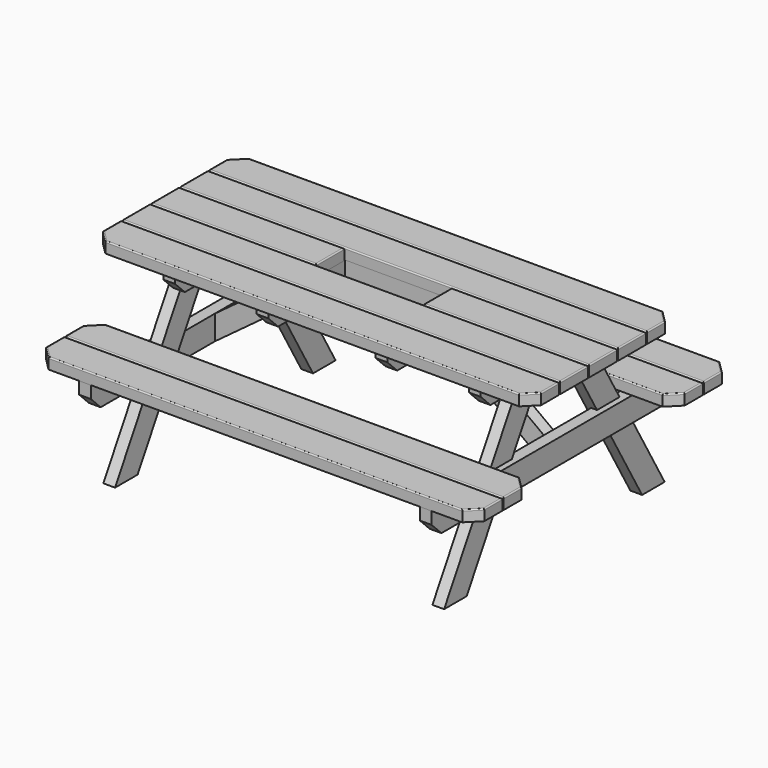
from build123d import *

# Parameters (mm, degrees)
F0_W           = 1795
F0_H           = 143
F1_DEPTH       = 45
F4_DEPTH       = 48
F6_DEPTH       = 24
F6_DEPTH_BACK  = 24
F8_W           = 1795
F8_H           = 143
F9_DEPTH       = 45
F11_W          = 48
F11_H          = 635
F12_DEPTH      = 100
F14_W          = 440
F14_H          = 48
F15_DEPTH      = 100
F16_W          = 440
F16_H          = 153
F17_DEPTH      = 45.001
F18_W          = 488
F18_H          = 201
F19_DEPTH      = 12.5
F21_DEPTH      = 24
F21_DEPTH_BACK = 24
F23_SIZE       = 50
F23_2_SIZE     = 50
F23_3_SIZE     = 50
F23_4_SIZE     = 50
F23_5_SIZE     = 50
F23_6_SIZE     = 50
F23_7_SIZE     = 50
F23_8_SIZE     = 50
F23_9_SIZE     = 50
F23_10_SIZE    = 50
F23_11_SIZE    = 50
F24_R          = 5
F24_2_R        = 5
F24_3_R        = 5
F24_4_R        = 5
F24_5_R        = 5
F24_6_R        = 5
F24_7_R        = 5
F24_8_R        = 5
F24_9_R        = 5


with BuildPart() as f1:
    # F0 (on Top) → F1 (new body)
    with BuildSketch(Plane.XY):
        Rectangle(F0_W, F0_H)
    extrude(amount=F1_DEPTH)

    # F16 (on face) → F17 (cut, through all)
    with BuildSketch(Plane(origin=(0, 0, 0), x_dir=(1, 0, 0), z_dir=(0, 0, -1))):
        Rectangle(F16_W, F16_H)
    extrude(amount=-F17_DEPTH, mode=Mode.SUBTRACT)

    # F24#5
    f24_5_edges = [f1.edges().sort_by_distance(p)[0] for p in [
        (-897.5, 0, 45),
        (-558.75, 71.5, 45),
        (-220, 0, 45),
        (-558.75, -71.5, 45),
        (220, 0, 45),
        (558.75, 71.5, 45),
        (897.5, 0, 45),
        (558.75, -71.5, 45),
        (-897.5, 71.5, 22.5),
        (-897.5, -71.5, 22.5),
        (-897.5, 0, 0),
    ]]
    fillet(f24_5_edges, radius=F24_5_R)


with BuildPart() as f1b:
    # F0 (on Top) → F1, piece 2 (new body)
    with BuildSketch(Plane.XY):
        with Locations((0, -148)):
            Rectangle(F0_W, F0_H)
    extrude(amount=F1_DEPTH)

    # F24#4
    f24_4_edges = [f1b.edges().sort_by_distance(p)[0] for p in [
        (0, -76.5, 45),
        (-897.5, -148, 45),
        (0, -219.5, 45),
        (897.5, -148, 45),
        (-897.5, -76.5, 22.5),
        (-897.5, -219.5, 22.5),
        (-897.5, -148, 0),
    ]]
    fillet(f24_4_edges, radius=F24_4_R)


with BuildPart() as f1c:
    # F0 (on Top) → F1, piece 3 (new body)
    with BuildSketch(Plane.XY):
        with Locations((0, -296)):
            Rectangle(F0_W, F0_H)
    extrude(amount=F1_DEPTH)

    # F23#9
    f23_9_edges = [f1c.edges().sort_by_distance(p)[0] for p in [
        (-897.5, -367.5, 22.5),
        (897.5, -367.5, 22.5),
    ]]
    chamfer(f23_9_edges, length=F23_9_SIZE)

    # F24#3
    f24_3_edges = [f1c.edges().sort_by_distance(p)[0] for p in [
        (-897.5, -271, 45),
        (-872.5, -342.5, 45),
        (0, -224.5, 45),
        (0, -367.5, 45),
        (897.5, -271, 45),
        (872.5, -342.5, 45),
    ]]
    fillet(f24_3_edges, radius=F24_3_R)


with BuildPart() as f1d:
    # F0 (on Top) → F1, piece 4 (new body)
    with BuildSketch(Plane.XY):
        with Locations((0, 148)):
            Rectangle(F0_W, F0_H)
    extrude(amount=F1_DEPTH)

    # F24#6
    f24_6_edges = [f1d.edges().sort_by_distance(p)[0] for p in [
        (-897.5, 148, 45),
        (0, 76.5, 45),
        (897.5, 148, 45),
        (0, 219.5, 45),
        (-897.5, 219.5, 22.5),
        (-897.5, 76.5, 22.5),
        (-897.5, 148, 0),
    ]]
    fillet(f24_6_edges, radius=F24_6_R)


with BuildPart() as f1e:
    # F0 (on Top) → F1, piece 5 (new body)
    with BuildSketch(Plane.XY):
        with Locations((0, 296)):
            Rectangle(F0_W, F0_H)
    extrude(amount=F1_DEPTH)

    # F23#8
    f23_8_edges = [f1e.edges().sort_by_distance(p)[0] for p in [
        (-897.5, 367.5, 22.5),
        (897.5, 367.5, 22.5),
    ]]
    chamfer(f23_8_edges, length=F23_8_SIZE)

    # F24#7
    f24_7_edges = [f1e.edges().sort_by_distance(p)[0] for p in [
        (-897.5, 271, 45),
        (-872.5, 342.5, 45),
        (0, 224.5, 45),
        (0, 367.5, 45),
        (897.5, 271, 45),
        (872.5, 342.5, 45),
    ]]
    fillet(f24_7_edges, radius=F24_7_R)


with BuildPart() as f4:
    # F3 (on offset) → F4 (new body)
    with BuildSketch(Plane.YZ.offset(650)):
        Polygon((564.6152422707, -700), (160.4700538379, 0), (45, 0), (449.1451884327, -700), align=None)
    extrude(amount=F4_DEPTH)



with BuildPart() as f4b:
    # F3 (on offset) → F4, piece 2 (new body)
    with BuildSketch(Plane.YZ.offset(650)):
        Polygon((-449.1451884327, -700), (-45, 0), (-160.4700538379, 0), (-564.6152422707, -700), align=None)
    extrude(amount=F4_DEPTH)


with BuildPart() as f4_1:
    add(f4.part)

    add(f4b.part)  # F6 merges F4b
    # F5 (on face) → F6 (join, two sides)
    with BuildSketch(Plane.YZ.offset(698)) as f6_sk:
        Polygon((-333.6751345948, -300), (-658.5, -300), (-658.5, -400), (658.5, -400), (658.5, -300), align=None)
    extrude(amount=F6_DEPTH)
    extrude(f6_sk.sketch, amount=-F6_DEPTH_BACK)


with BuildPart() as f7_1:
    # F7: instance of F4
    add(f4_1.part.mirror(Plane.YZ))

    # F23#3
    f23_3_edges = [f7_1.edges().sort_by_distance(p)[0] for p in [
        (-698, -658.5, -400),
        (-698, 658.5, -400),
    ]]
    chamfer(f23_3_edges, length=F23_3_SIZE)


with BuildPart() as f9:
    # F8 (on face) → F9 (new body)
    with BuildSketch(Plane.XY.offset(-300)):
        with Locations((0, -587)):
            Rectangle(F8_W, F8_H)
    extrude(amount=F9_DEPTH)

    # F23
    f23_edges = [f9.edges().sort_by_distance(p)[0] for p in [
        (897.5, -658.5, -277.5),
        (-897.5, -658.5, -277.5),
    ]]
    chamfer(f23_edges, length=F23_SIZE)

    # F24
    f24_edges = [f9.edges().sort_by_distance(p)[0] for p in [
        (-897.5, -562, -255),
        (-872.5, -633.5, -255),
        (0, -515.5, -255),
        (0, -658.5, -255),
        (897.5, -562, -255),
        (872.5, -633.5, -255),
    ]]
    fillet(f24_edges, radius=F24_R)


with BuildPart() as f9b:
    # F8 (on face) → F9, piece 2 (new body)
    with BuildSketch(Plane.XY.offset(-300)):
        with Locations((0, -439)):
            Rectangle(F8_W, F8_H)
    extrude(amount=F9_DEPTH)

    # F23#11
    f23_11_edges = [f9b.edges().sort_by_distance(p)[0] for p in [
        (897.5, -367.5, -277.5),
        (-897.5, -367.5, -277.5),
    ]]
    chamfer(f23_11_edges, length=F23_11_SIZE)

    # F24#2
    f24_2_edges = [f9b.edges().sort_by_distance(p)[0] for p in [
        (-897.5, -464, -255),
        (-872.5, -392.5, -255),
        (0, -510.5, -255),
        (0, -367.5, -255),
        (897.5, -464, -255),
        (872.5, -392.5, -255),
    ]]
    fillet(f24_2_edges, radius=F24_2_R)


with BuildPart() as f9c:
    # F8 (on face) → F9, piece 3 (new body)
    with BuildSketch(Plane.XY.offset(-300)):
        with Locations((0, 439)):
            Rectangle(F8_W, F8_H)
    extrude(amount=F9_DEPTH)

    # F23#10
    f23_10_edges = [f9c.edges().sort_by_distance(p)[0] for p in [
        (897.5, 367.5, -277.5),
        (-897.5, 367.5, -277.5),
    ]]
    chamfer(f23_10_edges, length=F23_10_SIZE)

    # F24#8
    f24_8_edges = [f9c.edges().sort_by_distance(p)[0] for p in [
        (0, 367.5, -255),
        (-872.5, 392.5, -255),
        (872.5, 392.5, -255),
        (-897.5, 464, -255),
        (897.5, 464, -255),
        (0, 510.5, -255),
    ]]
    fillet(f24_8_edges, radius=F24_8_R)


with BuildPart() as f9d:
    # F8 (on face) → F9, piece 4 (new body)
    with BuildSketch(Plane.XY.offset(-300)):
        with Locations((0, 587)):
            Rectangle(F8_W, F8_H)
    extrude(amount=F9_DEPTH)

    # F23#2
    f23_2_edges = [f9d.edges().sort_by_distance(p)[0] for p in [
        (897.5, 658.5, -277.5),
        (-897.5, 658.5, -277.5),
    ]]
    chamfer(f23_2_edges, length=F23_2_SIZE)

    # F24#9
    f24_9_edges = [f9d.edges().sort_by_distance(p)[0] for p in [
        (-897.5, 562, -255),
        (-872.5, 633.5, -255),
        (0, 515.5, -255),
        (0, 658.5, -255),
        (897.5, 562, -255),
        (872.5, 633.5, -255),
    ]]
    fillet(f24_9_edges, radius=F24_9_R)


with BuildPart() as f12:
    # F11 (on face) → F12 (new body)
    with BuildSketch(Plane(origin=(0, 0, 0), x_dir=(1, 0, 0), z_dir=(0, 0, -1))):
        with Locations((-626, 0)):
            Rectangle(F11_W, F11_H)
    extrude(amount=F12_DEPTH)

    # F23#4
    f23_4_edges = [f12.edges().sort_by_distance(p)[0] for p in [
        (-626, 317.5, -100),
        (-626, -317.5, -100),
    ]]
    chamfer(f23_4_edges, length=F23_4_SIZE)


with BuildPart() as f12b:
    # F11 (on face) → F12, piece 2 (new body)
    with BuildSketch(Plane(origin=(0, 0, 0), x_dir=(1, 0, 0), z_dir=(0, 0, -1))):
        with Locations((626, 0)):
            Rectangle(F11_W, F11_H)
    extrude(amount=F12_DEPTH)

    # F23#6
    f23_6_edges = [f12b.edges().sort_by_distance(p)[0] for p in [
        (626, 317.5, -100),
        (626, -317.5, -100),
    ]]
    chamfer(f23_6_edges, length=F23_6_SIZE)


with BuildPart() as f15:
    # F14 (on face) → F15 (new body)
    with BuildSketch(Plane(origin=(0, 0, 0), x_dir=(1, 0, 0), z_dir=(0, 0, -1))):
        Polygon((-220, 317.5), (-268, 317.5), (-268, -317.5), (-220, -317.5), (-220, -124.5), (-220, -76.5), (-220, 76.5), (-220, 124.5), align=None)
        with Locations((0, 100.5)):
            Rectangle(F14_W, F14_H)
        Polygon((220, 317.5), (220, 124.5), (220, 76.5), (220, -76.5), (220, -124.5), (220, -317.5), (268, -317.5), (268, 317.5), align=None)
        with Locations((0, -100.5)):
            Rectangle(F14_W, F14_H)
    extrude(amount=F15_DEPTH)

    # F18 (on face) → F19 (join)
    with BuildSketch(Plane(origin=(0, 0, -100), x_dir=(1, 0, 0), z_dir=(0, 0, -1))):
        Rectangle(F18_W, F18_H)
    extrude(amount=F19_DEPTH)

    # F23#5
    f23_5_edges = [f15.edges().sort_by_distance(p)[0] for p in [
        (-244, 317.5, -100),
        (244, 317.5, -100),
        (-244, -317.5, -100),
        (244, -317.5, -100),
    ]]
    chamfer(f23_5_edges, length=F23_5_SIZE)


with BuildPart() as f21:
    # F20 (on Front) → F21 (new body, two sides)
    with BuildSketch(Plane.XZ) as f21_sk:
        Polygon((-674, -300), (-674, -400), (-268, -100), (-268, 0), align=None)
    extrude(amount=F21_DEPTH)
    extrude(f21_sk.sketch, amount=-F21_DEPTH_BACK)


with BuildPart() as f22_1:
    # F22: instance of F21
    add(f21.part.mirror(Plane.YZ))


with BuildPart() as f4_2:
    add(f4_1.part)

    # F23#7
    f23_7_edges = [f4_2.edges().sort_by_distance(p)[0] for p in [
        (698, -658.5, -400),
        (698, 658.5, -400),
    ]]
    chamfer(f23_7_edges, length=F23_7_SIZE)


solid = Compound([f1.part, f1b.part, f1c.part, f1d.part, f1e.part, f7_1.part, f9.part, f9b.part, f9c.part, f9d.part, f12.part, f12b.part, f15.part, f21.part, f22_1.part, f4_2.part])
